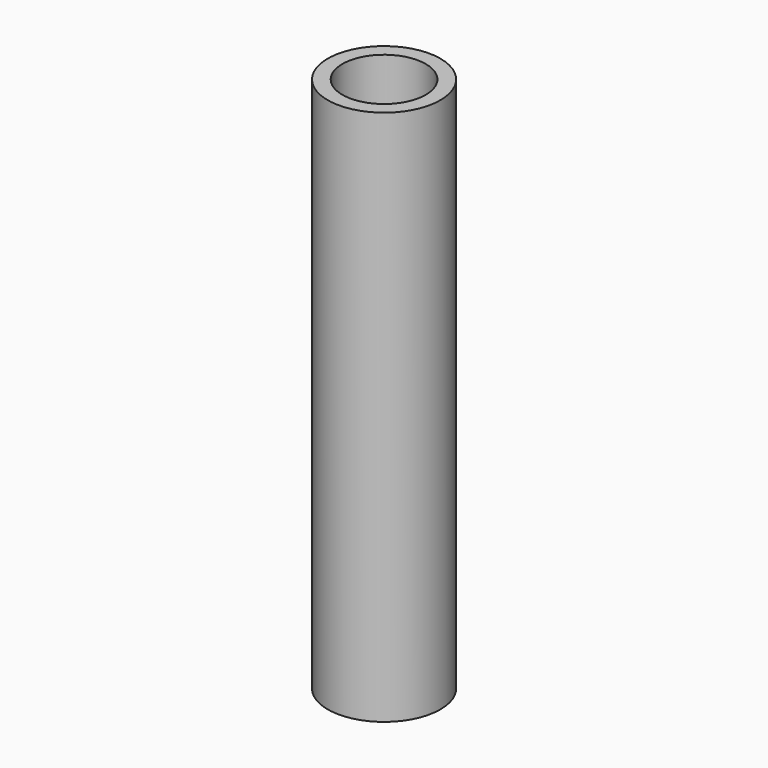
from build123d import *

# Parameters (mm, degrees)
F0_R     = 10.668
F1_DEPTH = 101.6
F2_R     = 7.8994
F3_DEPTH = 101.601


with BuildPart() as f1:
    # F0 (on Top) → F1 (new body)
    with BuildSketch(Plane.XY):
        Circle(F0_R)
    extrude(amount=F1_DEPTH)

    # F2 (on Top) → F3 (cut, through all)
    with BuildSketch(Plane.XY):
        Circle(F2_R)
    extrude(amount=F3_DEPTH, mode=Mode.SUBTRACT)


solid = f1.part
